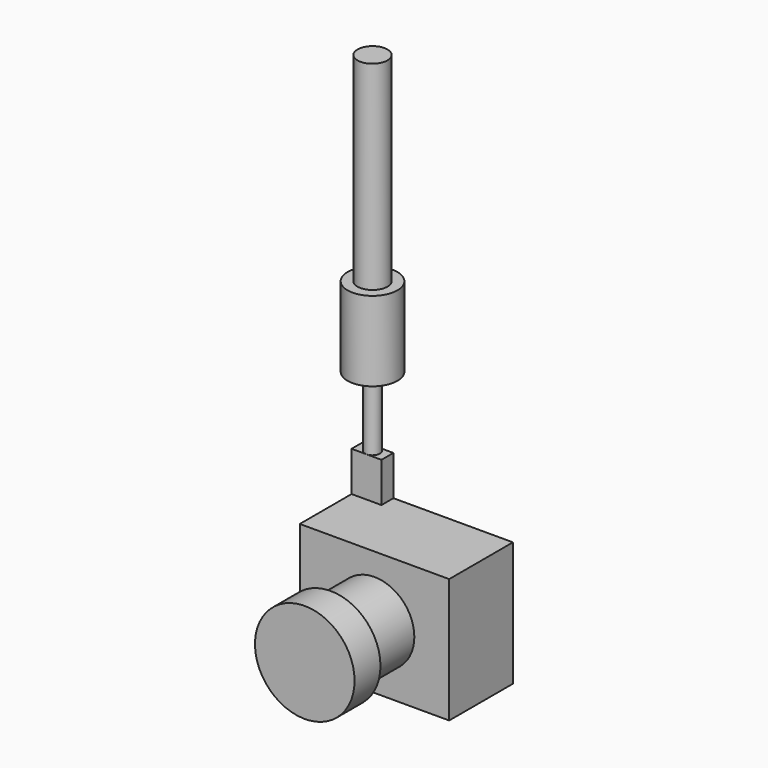
from build123d import *

# Parameters (mm, degrees)
F0_W      = 15
F0_H      = 12.5
F1_DEPTH  = 8
F2_R      = 4
F3_DEPTH  = 5.5
F4_R      = 5
F5_DEPTH  = 3.25
F6_W      = 3
F6_H      = 1.5
F7_DEPTH  = 4
F8_R      = 0.75
F9_DEPTH  = 7
F10_R     = 2.5
F11_DEPTH = 8
F12_R     = 1.5
F13_DEPTH = 20


with BuildPart() as f1:
    # F0 (on Front) → F1 (new body)
    with BuildSketch(Plane.XZ):
        with Locations((7.5, 6.25)):
            Rectangle(F0_W, F0_H)
    extrude(amount=F1_DEPTH)

    # F2 (on face) → F3 (join)
    with BuildSketch(Plane.XZ.offset(8)):
        with Locations((7.5, 6.25)):
            Circle(F2_R)
    extrude(amount=F3_DEPTH)

    # F4 (on face) → F5 (join)
    with BuildSketch(Plane.XZ.offset(13.5)):
        with Locations((7.5, 6.25)):
            Circle(F4_R)
    extrude(amount=F5_DEPTH)

    # F6 (on face) → F7 (join)
    with BuildSketch(Plane.XY.offset(12.5)):
        with Locations((1.5, -0.75)):
            Rectangle(F6_W, F6_H)
    extrude(amount=F7_DEPTH)

    # F8 (on face) → F9 (join)
    with BuildSketch(Plane.XY.offset(16.5)):
        with Locations((1.5, -0.75)):
            Circle(F8_R)
    extrude(amount=F9_DEPTH)

    # F10 (on face) → F11 (join)
    with BuildSketch(Plane.XY.offset(23.5)):
        with Locations((1.5, -0.75)):
            Circle(F10_R)
    extrude(amount=F11_DEPTH)

    # F12 (on face) → F13 (join)
    with BuildSketch(Plane.XY.offset(31.5)):
        with Locations((1.5, -0.75)):
            Circle(F12_R)
    extrude(amount=F13_DEPTH)


solid = f1.part
